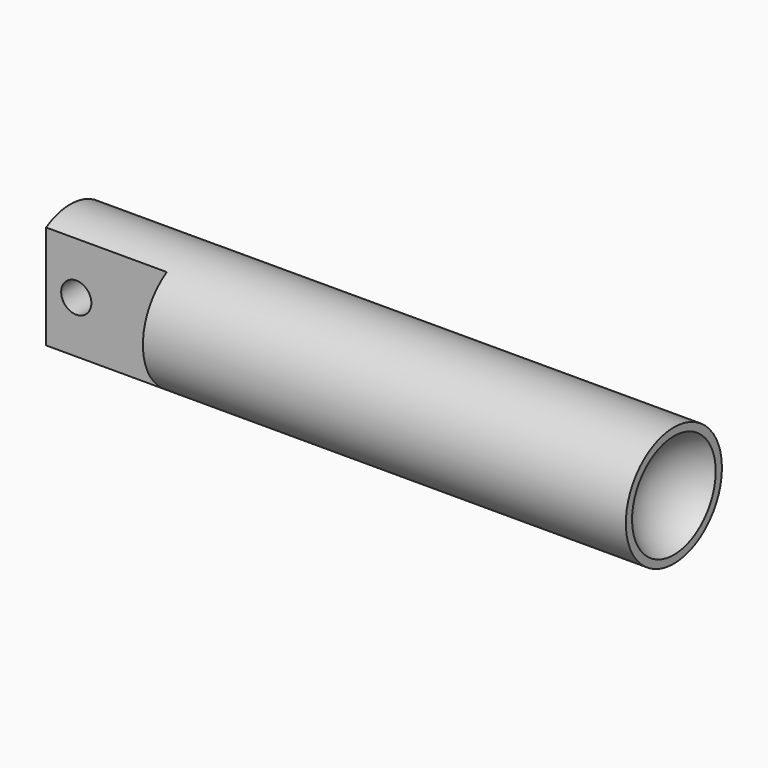
from build123d import *

# Parameters (mm, degrees)
F0_R     = 12.6365
F1_DEPTH = 127
F2_W     = 12.7
F2_H     = 48.913808
F2_H_2   = 48.351582
F3_DEPTH = 25.4
F4_R     = 3.175
F5_DEPTH = 12.7


with BuildPart() as f1:
    # F0 (on Right) → F1 (new body)
    with BuildSketch(Plane.YZ):
        Circle(F0_R)
    extrude(amount=F1_DEPTH)

    # F2 (on Right) → F3 (cut)
    with BuildSketch(Plane.YZ):
        with Locations((12.650123, 0.010107)):
            Rectangle(F2_W, F2_H)
        with Locations((-12.7, -0.833233)):
            Rectangle(F2_W, F2_H_2)
    extrude(amount=F3_DEPTH, mode=Mode.SUBTRACT)

    # F4 (on Front) → F5 (cut, symmetric)
    with BuildSketch(Plane.XZ):
        with Locations((6.35, 0)):
            Circle(F4_R)
    extrude(amount=F5_DEPTH, both=True, mode=Mode.SUBTRACT)

    # F6 (on Front) → F7 (revolve, cut)
    with BuildSketch(Plane.XZ):
        with BuildLine():
            Line((120.65, 0), (146.05, 0))
            ThreePointArc((146.05, 0), (133.35, 12.7), (120.65, 0))
        make_face()
    revolve(axis=Axis((133.35, 0, 0), (-1, 0, 0)), mode=Mode.SUBTRACT)


solid = f1.part
